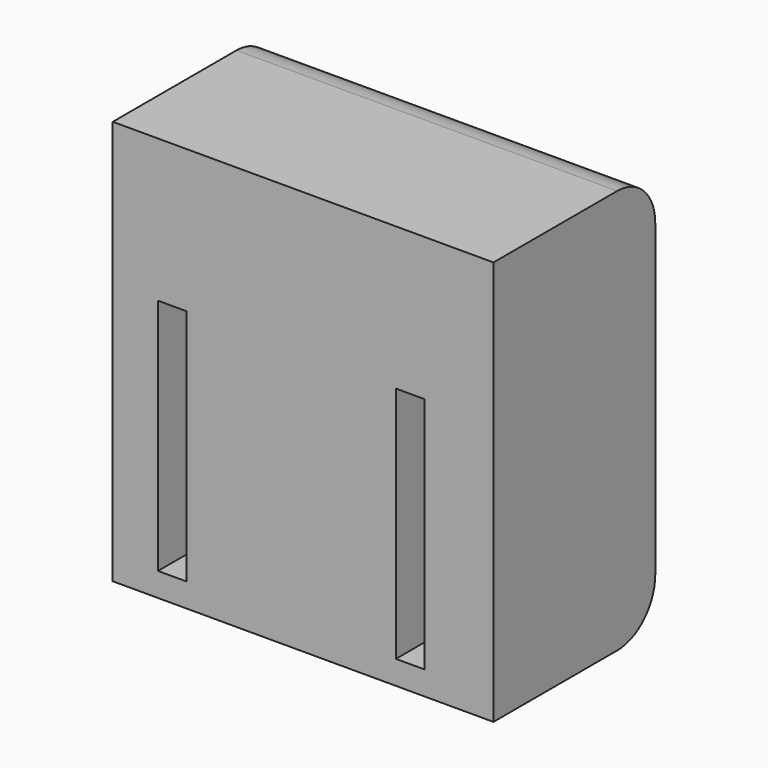
from build123d import *

# Parameters (mm, degrees)
BOX054_W     = 12
BOX054_H     = 4
BOX054_DEPTH = 1.2
BOX053_W     = 1.2
BOX053_H     = 5
BOX053_DEPTH = 10
BOX052_W     = 1.2
BOX052_H     = 5
BOX052_DEPTH = 10
BOX051_W     = 16
BOX051_H     = 8.5
BOX051_DEPTH = 17
FILLET025_R  = 2


with BuildPart() as cube033:
    # Box054 → Box054 (new body)
    with BuildSketch(Plane(origin=(325.5, 50.5, 9.4), x_dir=(1, 0, 0), z_dir=(0, 0, 1))):
        with Locations((6, 2)):
            Rectangle(BOX054_W, BOX054_H)
    extrude(amount=BOX054_DEPTH)


with BuildPart() as cube032:
    # Box053 → Box053 (new body)
    with BuildSketch(Plane(origin=(335.4, 46, 2.5), x_dir=(1, 0, 0), z_dir=(0, 0, 1))):
        with Locations((0.6, 2.5)):
            Rectangle(BOX053_W, BOX053_H)
    extrude(amount=BOX053_DEPTH)


with BuildPart() as fusion099:
    # Box052 → Box052 (new body)
    with BuildSketch(Plane(origin=(325.4, 46, 2.5), x_dir=(1, 0, 0), z_dir=(0, 0, 1))):
        with Locations((0.6, 2.5)):
            Rectangle(BOX052_W, BOX052_H)
    extrude(amount=BOX052_DEPTH)

    # Fusion099: union Cube032
    add(cube032.part)


with BuildPart() as cut061:
    # Box051 → Box051 (new body)
    with BuildSketch(Plane(origin=(323.5, 46, 1.5), x_dir=(1, 0, 0), z_dir=(0, 0, 1))):
        with Locations((8, 4.25)):
            Rectangle(BOX051_W, BOX051_H)
    extrude(amount=BOX051_DEPTH)

    # Cut060: cut Fusion099
    add(fusion099.part, mode=Mode.SUBTRACT)

    # Fillet025
    fillet025_edges = [cut061.edges().sort_by_distance(p)[0] for p in [
        (331.5, 54.5, 18.5),
        (331.5, 54.5, 1.5),
    ]]
    fillet(fillet025_edges, radius=FILLET025_R)

    # Cut061: cut Cube033
    add(cube033.part, mode=Mode.SUBTRACT)


with BuildPart() as cut061_1:
    # Cut061 placement: moved
    add(cut061.part.moved(Location((0, 16, 0))))


solid = cut061_1.part
